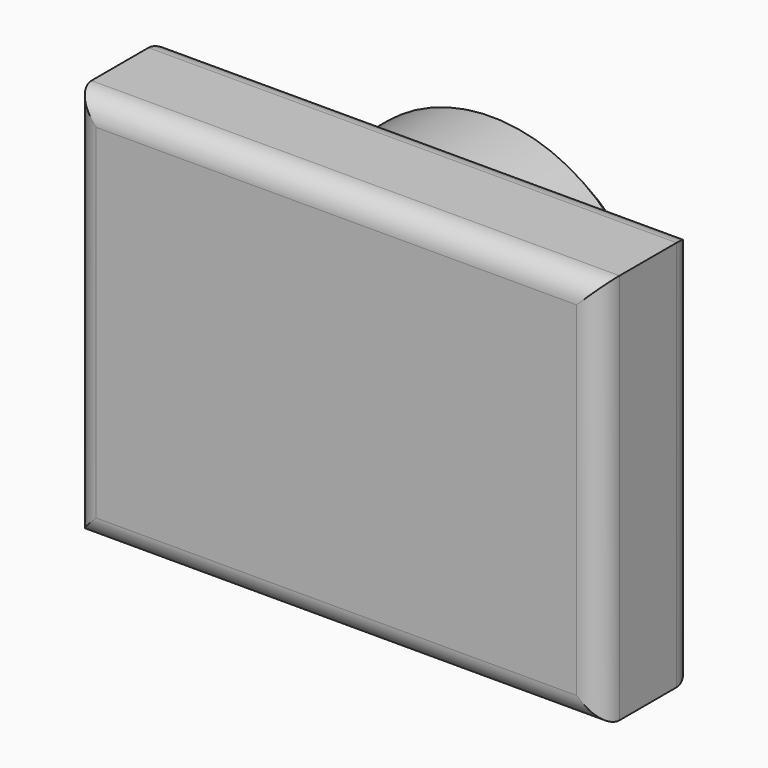
from build123d import *

# Parameters (mm, degrees)
F1_DEPTH = 25.4
F2_R     = 5.08
F3_R     = 5.08
F5_R     = 34.804273
F6_DEPTH = 25.4
F7_SIZE  = 5.08


with BuildPart() as f1:
    # F0 (on Front) → F1 (new body)
    with BuildSketch(Plane.XZ):
        Polygon((0, 83.670445), (0, 0), (94.367452, 0), (112.888888, 0), (112.888888, 83.670445), align=None)
    extrude(amount=F1_DEPTH)

    # F2
    f2_edges = [f1.edges().sort_by_distance(p)[0] for p in [
        (112.888888, 0, 41.835222),
        (0, 0, 41.835222),
        (56.444444, 0, 0),
        (56.444444, 0, 83.670445),
    ]]
    fillet(f2_edges, radius=F2_R)

    # F3
    f3_edges = [f1.edges().sort_by_distance(p)[0] for p in [
        (112.888888, -25.4, 41.835222),
        (56.444444, -25.4, 83.670445),
        (0, -25.4, 41.835222),
        (56.444444, -25.4, 0),
    ]]
    fillet(f3_edges, radius=F3_R)

    # F5 (on face) → F6 (join)
    with BuildSketch(Plane(origin=(0, 0, 0), x_dir=(-1, 0, 0), z_dir=(0, 1, 0))):
        with Locations((-53.028904, 42.805873)):
            Circle(F5_R)
    extrude(amount=F6_DEPTH)

    # F7
    f7_edges = [f1.edges().sort_by_distance(p)[0] for p in [
        (87.833177, 25.4, 42.805873),
    ]]
    chamfer(f7_edges, length=F7_SIZE)


solid = f1.part
